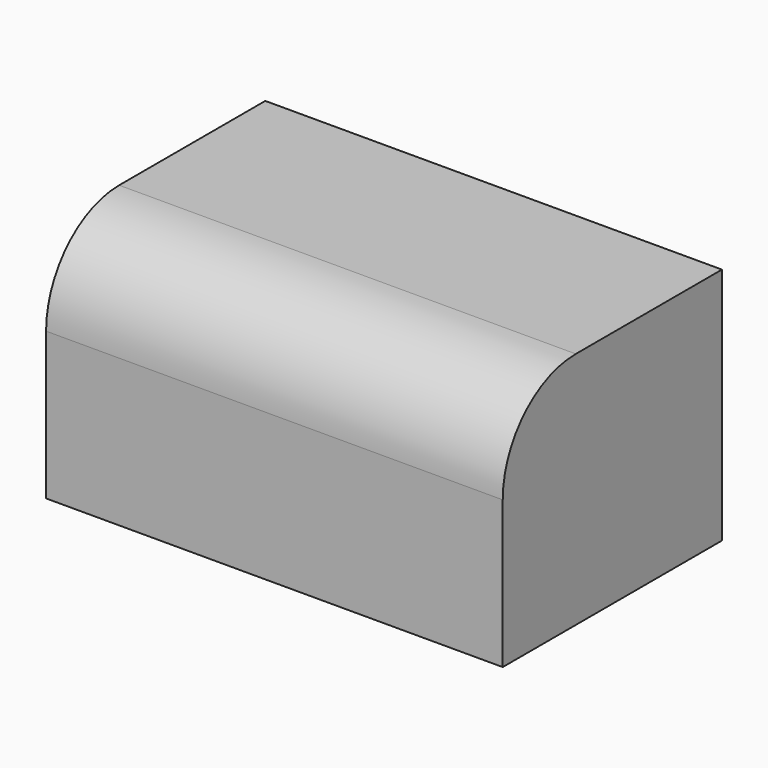
from build123d import *

# Parameters (mm, degrees)
F0_W     = 127
F0_H     = 66.353932
F1_DEPTH = 76.2
F2_R     = 25.4


with BuildPart() as f1:
    # F0 (on Front) → F1 (new body)
    with BuildSketch(Plane.XZ):
        Rectangle(F0_W, F0_H)
    extrude(amount=F1_DEPTH)

    # F2
    f2_edges = [f1.edges().sort_by_distance(p)[0] for p in [
        (0, -76.2, 33.176966),
    ]]
    fillet(f2_edges, radius=F2_R)


solid = f1.part
